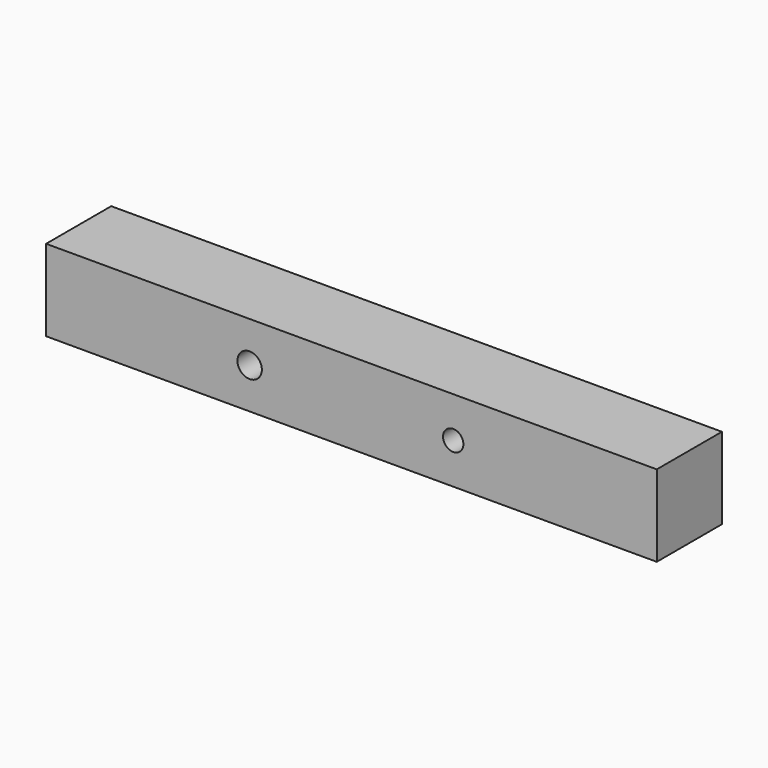
from build123d import *

# Parameters (mm, degrees)
F0_W     = 75
F0_H     = 10
F0_R     = 1.5
F0_R_2   = 1.25
F1_DEPTH = 5
F2_R     = 0.75
F3_DEPTH = 4.53


with BuildPart() as f1:
    # F0 (on Front) → F1 (new body, symmetric)
    with BuildSketch(Plane.XZ):
        with Locations((24.515805, 1.649378)):
            Rectangle(F0_W, F0_H)
        with Locations((12.015805, 1.649378)):
            Circle(F0_R, mode=Mode.SUBTRACT)
        with Locations((37.015805, 1.649378)):
            Circle(F0_R_2, mode=Mode.SUBTRACT)
    extrude(amount=F1_DEPTH, both=True)

    # F2 (on face) → F3 (cut, symmetric)
    with BuildSketch(Plane(origin=(-12.984195, 0, 0), x_dir=(0, -1, 0), z_dir=(-1, 0, 0))):
        with Locations((0, 1.649378)):
            Circle(F2_R)
    extrude(amount=F3_DEPTH, both=True, mode=Mode.SUBTRACT)


solid = f1.part
